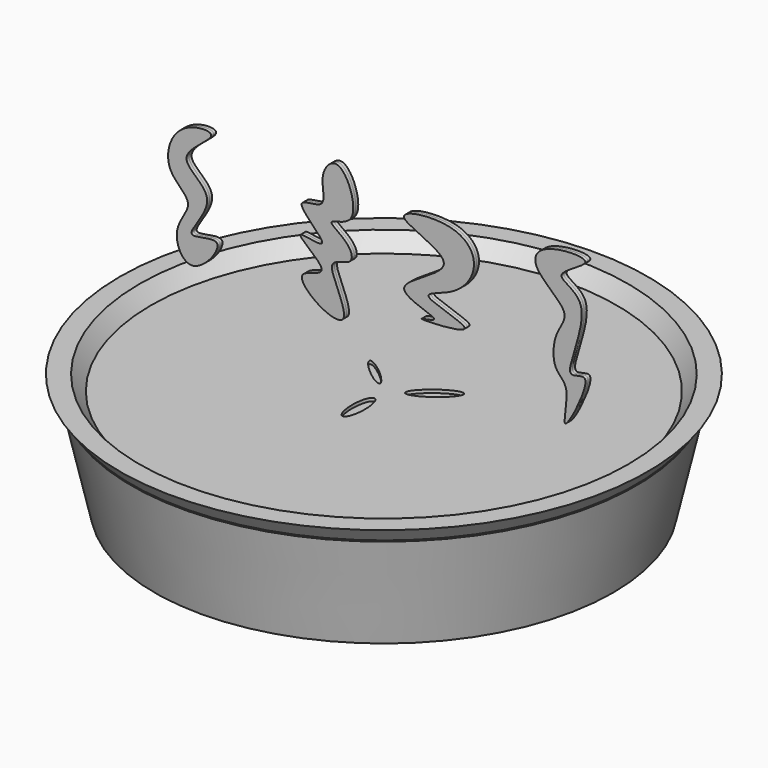
from build123d import *

# Parameters (mm, degrees)
F6_DEPTH = 0.762
F8_DEPTH = 0.762


with BuildPart() as f1:
    # F0 (on Front) → F1 (revolve)
    with BuildSketch(Plane.XZ):
        Polygon((0, 37.3473279178), (-61.1265227199, 37.3473279178), (-55.5314160883, 12.7288633958), (0, 12.7288633958), align=None)
    revolve(axis=Axis((0, 0, 25.0380956568), (0, 0, -1)))

    # F5 (on face) → F6 (cut)
    with BuildSketch(Plane.XY.offset(37.3473279178)):
        with BuildLine():
            add(Edge.make_bspline(
                [(0, -12.4491089955), (2.6318771489, -12.4491089955), (1.3159385745, -5.3153494373), (0, 1.8184101209), (-1.3159385745, -5.3153494373), (-2.6318771489, -12.4491089955), (0, -12.4491089955)],
                knots=[0, 0, 0, 2.0943951024, 2.0943951024, 4.1887902048, 4.1887902048, 6.2831853072, 6.2831853072, 6.2831853072], degree=2, weights=[1, 0.5, 1, 0.5, 1, 0.5, 1]))
        make_face()
        with BuildLine():
            add(Edge.make_bspline(
                [(3.2171863131, 2.3779196199), (4.8275744415, 0.2307355976), (10.7365055412, 6.3399218309), (16.6454366408, 12.4491080642), (9.1261174128, 8.4871058532), (1.6067981847, 4.5251036422), (3.2171863131, 2.3779196199)],
                knots=[0, 0, 0, 2.0943951024, 2.0943951024, 4.1887902048, 4.1887902048, 6.2831853072, 6.2831853072, 6.2831853072], degree=2, weights=[1, 0.5, 1, 0.5, 1, 0.5, 1]))
        make_face()
        with BuildLine():
            add(Edge.make_bspline(
                [(-10.2110663429, 8.5325352848), (-11.1841964626, 7.3824723624), (-5.242403834, 3.3415422496), (0.6993887946, -0.6993878633), (-4.2692737143, 4.4916051719), (-9.2379362231, 9.6825982071), (-10.2110663429, 8.5325352848)],
                knots=[0, 0, 0, 2.0943951024, 2.0943951024, 4.1887902048, 4.1887902048, 6.2831853072, 6.2831853072, 6.2831853072], degree=2, weights=[1, 0.5, 1, 0.5, 1, 0.5, 1]))
        make_face()
    extrude(amount=-F6_DEPTH, mode=Mode.SUBTRACT)


with BuildPart() as f4:
    # F3 (on Front) → F4 (revolve)
    with BuildSketch(Plane.XZ):
        Polygon((-63.924074173, 41.2638969719), (-61.1265189946, 37.6270823181), (-56.3706830144, 37.6270823181), (-59.1682344675, 41.2638969719), align=None)
    revolve(axis=Axis((0, 0, 37.3473279178), (0, 0, -1)))


with BuildPart() as f8:
    # F7 (on Front) → F8 (new body, symmetric)
    with BuildSketch(Plane.XZ):
        with BuildLine():
            add(Edge.make_bspline(
                [(-45.5172732472, 49.8551689088), (-48.1023223355, 49.4836692228), (-51.6204221233, 56.5517105259), (-44.0898629194, 63.1006091035), (-53.5411986058, 67.9572395638), (-50.1178087387, 79.9132854895), (-36.4700484247, 80.2634098364), (-52.4686169794, 71.8417621161), (-37.3021934985, 66.348691132), (-50.561231835, 53.6474152961), (-35.5527935301, 59.6701815688), (-42.6558833923, 50.2663817703), (-45.5172732472, 49.8551689088)],
                knots=[0, 0, 0, 0, 0.0945788478, 0.1909740828, 0.2867914666, 0.3994152684, 0.490580244, 0.5960595443, 0.7009882231, 0.8090313907, 0.8953107092, 1, 1, 1, 1], degree=3))
        make_face()
    extrude(amount=F8_DEPTH, both=True)


with BuildPart() as f8b:
    # F7 (on Front) → F8, piece 2 (new body, symmetric)
    with BuildSketch(Plane.XZ):
        with BuildLine():
            add(Edge.make_bspline(
                [(-14.1703095287, 79.2099237442), (-14.5584076674, 76.7865261708), (-12.1751850996, 71.6297051801), (-23.6658930786, 73.2521800976), (-9.2949368041, 62.2910656485), (-24.6001555674, 67.1047841902), (-9.9267484703, 57.9520252387), (-22.3993959948, 57.5933574828), (-15.017177709, 50.3413342457), (-7.4687731954, 48.7813382407), (-10.6820925602, 56.616312503), (-13.242718601, 62.2902956364), (-6.3409747662, 62.3354002831), (-7.6518152848, 67.1932074747), (-14.8690897495, 70.7616088232), (-4.0498083491, 70.4163690874), (-9.6398818893, 86.171283861), (-13.8189358007, 81.4040034234), (-14.1703095287, 79.2099237442)],
                knots=[0, 0, 0, 0, 0.0642152434, 0.1213252113, 0.1959533649, 0.2551245791, 0.3268238301, 0.3860464341, 0.4540535413, 0.5146755482, 0.5803116887, 0.6377570372, 0.6917021039, 0.7411891016, 0.7985310851, 0.8573701899, 0.9418612273, 1, 1, 1, 1], degree=3))
        make_face()
    extrude(amount=F8_DEPTH, both=True)


with BuildPart() as f8c:
    # F7 (on Front) → F8, piece 3 (new body, symmetric)
    with BuildSketch(Plane.XZ):
        with BuildLine():
            add(Edge.make_bspline(
                [(9.8279071972, 56.5946809947), (10.2985119292, 56.7467923859), (17.0027188599, 57.4453687151), (-2.8323624264, 61.1489986667), (24.5582598923, 70.4158149757), (-2.4706218859, 77.2386564005), (18.1450682535, 80.2670222667), (24.4397235629, 72.5032908677), (18.7000365089, 64.0240234218), (6.4987001619, 61.9527435647), (24.8406816308, 57.9652833907), (14.6004314757, 56.3726834857), (9.2531557534, 56.4089067437), (9.8279071972, 56.5946809947)],
                knots=[0, 0, 0, 0, 0.0567333298, 0.1494350615, 0.2650048758, 0.3749158119, 0.4818999173, 0.5753310782, 0.6733512287, 0.7545685032, 0.8529611233, 0.9307113572, 1, 1, 1, 1], degree=3))
        make_face()
    extrude(amount=F8_DEPTH, both=True)


with BuildPart() as f8d:
    # F7 (on Front) → F8, piece 4 (new body, symmetric)
    with BuildSketch(Plane.XZ):
        with BuildLine():
            add(Edge.make_bspline(
                [(39.9345122278, 81.2138095498), (37.5143004447, 80.1796152235), (35.6560302671, 76.0268846708), (46.784701702, 69.4692122408), (41.6518222347, 64.4066276245), (41.2420598564, 55.8090863157), (46.261758626, 54.0214046721), (42.0990997228, 38.941261143), (52.7311426784, 59.8972211703), (42.04392035, 53.2023590479), (53.2621347054, 74.0160440759), (39.1257499001, 76.2670512523), (55.1118134127, 82.8274367099), (43.2224407238, 82.6187927912), (39.9345122278, 81.2138095498)],
                knots=[0, 0, 0, 0, 0.0687723808, 0.1645740933, 0.2354015962, 0.3183285001, 0.3843608738, 0.4650091044, 0.5702086378, 0.6255773702, 0.7457153875, 0.8242797301, 0.9065707092, 1, 1, 1, 1], degree=3))
        make_face()
    extrude(amount=F8_DEPTH, both=True)


solid = Compound([f1.part, f4.part, f8.part, f8b.part, f8c.part, f8d.part])
